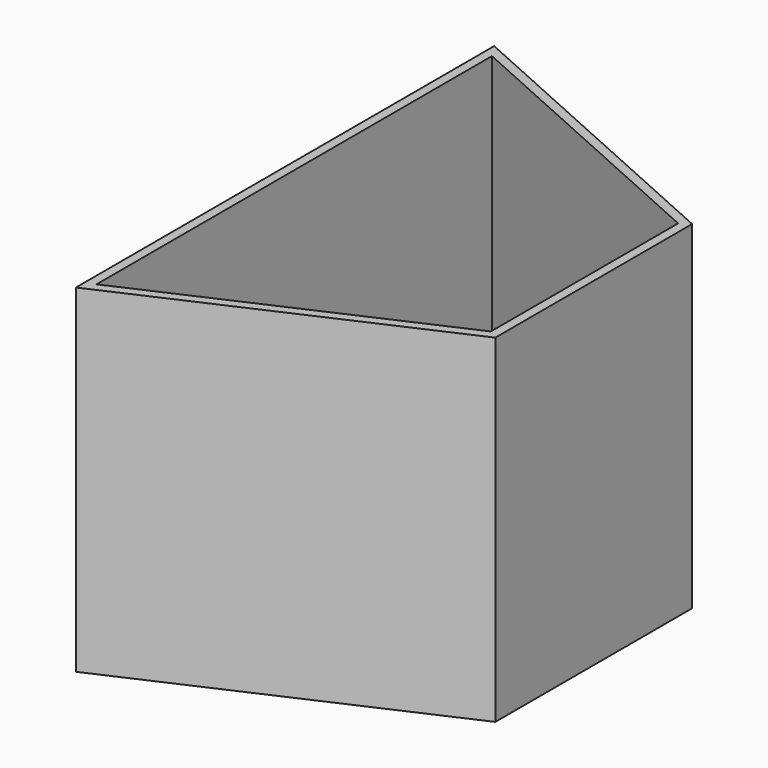
from build123d import *

# Parameters (mm, degrees)
F1_DEPTH = 110
F2_DEPTH = 3


with BuildPart() as f1:
    # F0 (on Top) → F1 (new body)
    with BuildSketch(Plane.XY):
        Polygon((-16.034995, -5.722789), (-116.409295, 39.277211), (-116.409295, -130.722789), (-16.034995, -85.722789), align=None)
        Polygon((-113.409295, -126.090129), (-113.409295, 34.644551), (-19.034995, -7.665517), (-19.034995, -83.78006), align=None, mode=Mode.SUBTRACT)
    extrude(amount=F1_DEPTH)

    # F0 (on Top) → F2 (join)
    with BuildSketch(Plane.XY):
        Polygon((-19.034995, -7.665517), (-113.409295, 34.644551), (-113.409295, -126.090129), (-19.034995, -83.78006), align=None)
    extrude(amount=F2_DEPTH)


solid = f1.part
